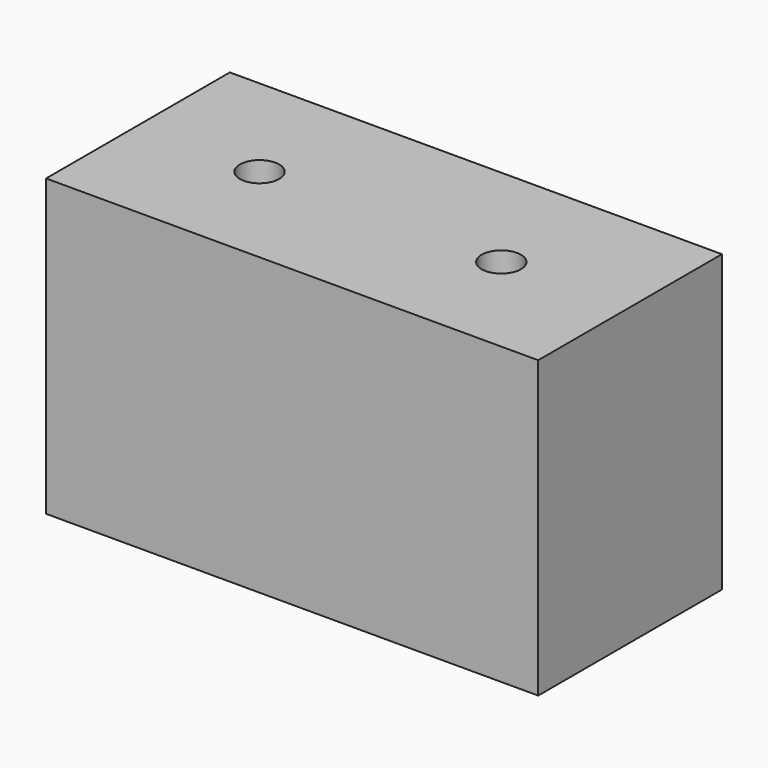
from build123d import *

# Parameters (mm, degrees)
SKETCH001_W     = 15
SKETCH001_H     = 7
PAD_DEPTH       = 9
SKETCH_R        = 2.55
POCKET_DEPTH    = 7
SKETCH002_R     = 0.6
POCKET001_DEPTH = 5


with BuildPart() as part:
    # Sketch001 → Pad (new body)
    with BuildSketch(Plane(origin=(0, 0, 0), x_dir=(1, 0, 0), z_dir=(0, 0, -1))):
        with Locations((0.536015, 2.732478)):
            Rectangle(SKETCH001_W, SKETCH001_H)
    extrude(amount=PAD_DEPTH)

    # Sketch → Pocket (cut)
    with BuildSketch(Plane(origin=(0, 0, -9), x_dir=(1, 0, 0), z_dir=(0, 0, -1))):
        with Locations((-3.254865, 2.67761)):
            Circle(SKETCH_R)
        with Locations((4.144291, 2.789385)):
            Circle(SKETCH_R)
    extrude(amount=-POCKET_DEPTH, mode=Mode.SUBTRACT)

    # Sketch002 → Pocket001 (cut)
    with BuildSketch(Plane(origin=(0, 0, -2), x_dir=(1, 0, 0), z_dir=(0, 0, -1))):
        with Locations((-3.213175, 2.787703)):
            Circle(SKETCH002_R)
        with Locations((4.18651, 2.825651)):
            Circle(SKETCH002_R)
    extrude(amount=-POCKET001_DEPTH, mode=Mode.SUBTRACT)


solid = part.part
